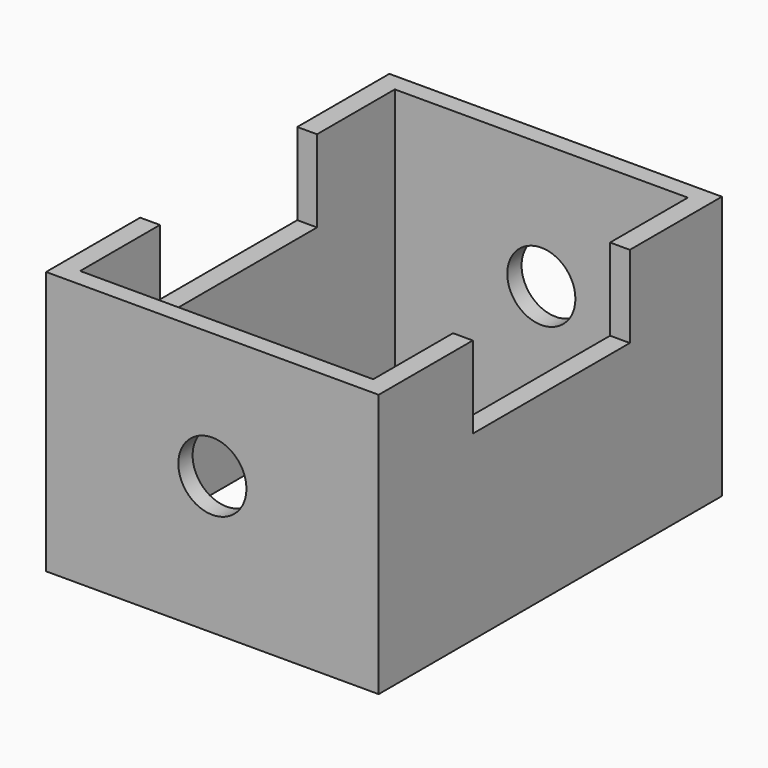
from build123d import *

# Parameters (mm, degrees)
F0_W     = 96.15881
F0_H     = 124.052196
F0_W_2   = 84.728866
F0_H_2   = 113.717616
F1_DEPTH = 76.2
F2_R     = 9.848118
F3_DEPTH = 127
F4_W     = 56.765504
F4_H     = 23.716378
F5_DEPTH = 127


with BuildPart() as f1:
    # F0 (on Top) → F1 (new body)
    with BuildSketch(Plane.XY):
        Rectangle(F0_W, F0_H)
        Rectangle(F0_W_2, F0_H_2, mode=Mode.SUBTRACT)
    extrude(amount=F1_DEPTH)

    # F2 (on face) → F3 (cut)
    with BuildSketch(Plane.XZ.offset(62.026098)):
        with Locations((0, 39.847784)):
            Circle(F2_R)
    extrude(amount=-F3_DEPTH, mode=Mode.SUBTRACT)

    # F4 (on face) → F5 (cut)
    with BuildSketch(Plane.YZ.offset(48.079405)):
        with Locations((0.367016, 64.341811)):
            Rectangle(F4_W, F4_H)
    extrude(amount=-F5_DEPTH, mode=Mode.SUBTRACT)


solid = f1.part
